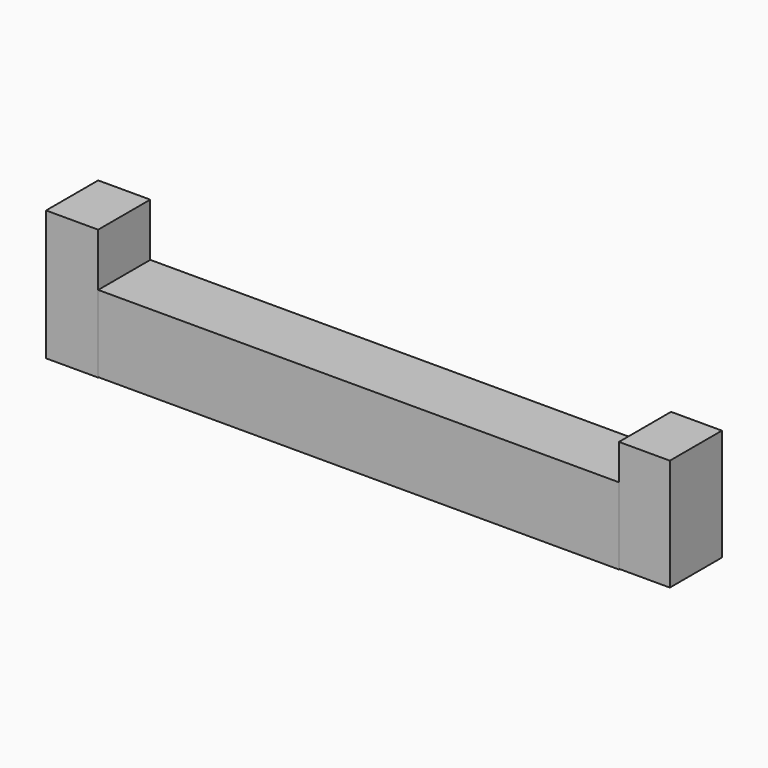
from build123d import *

# Parameters (mm, degrees)
F0_W     = 20
F0_H     = 50
F3_DEPTH = 25
F1_W     = 200
F1_H     = 29.4873276725
F2_W     = 19.5345133543
F2_H     = 42.9117744789


with BuildPart() as f3:
    # F0 (on Front) → F3 (new body)
    with BuildSketch(Plane.XZ):
        with Locations((-141.2794581467, 12.6236931145)):
            Rectangle(F0_W, F0_H)
    extrude(amount=F3_DEPTH)


with BuildPart() as f3b:
    # F1 (on Front) → F3, piece 2 (new body)
    with BuildSketch(Plane.XZ):
        with Locations((-31.2591433525, 2.5208140723)):
            Rectangle(F1_W, F1_H)
    extrude(amount=F3_DEPTH)


with BuildPart() as f3c:
    # F2 (on Front) → F3, piece 3 (new body)
    with BuildSketch(Plane.XZ):
        with Locations((78.4732475877, 9.4696381129)):
            Rectangle(F2_W, F2_H)
    extrude(amount=F3_DEPTH)


solid = Compound([f3.part, f3b.part, f3c.part])
